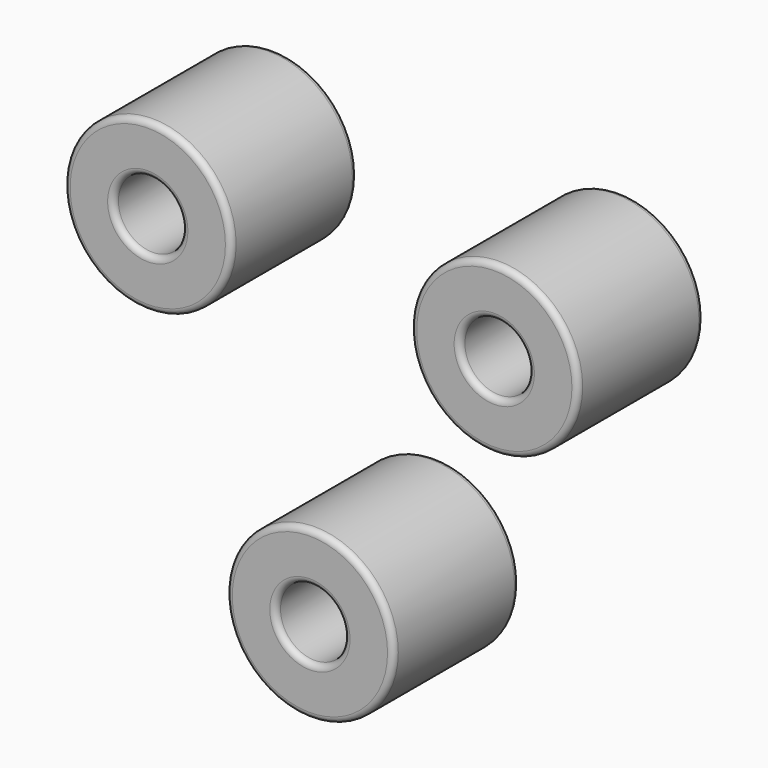
from build123d import *

# Parameters (mm, degrees)
F1_R     = 7.1
F1_R_2   = 2.9
F2_DEPTH = 6.675
F3_R     = 0.508
F3_2_R   = 0.508
F3_3_R   = 0.508
F4_R     = 0.508
F4_2_R   = 0.508
F4_3_R   = 0.508


with BuildPart() as f2:
    # F1 (on Front) → F2 (new body, symmetric)
    with BuildSketch(Plane.XZ):
        with Locations((15.027449182, 7.9483187582)):
            Circle(F1_R)
        with Locations((15.027449182, 7.9483187582)):
            Circle(F1_R_2, mode=Mode.SUBTRACT)
    extrude(amount=F2_DEPTH, both=True)

    # F3#2
    f3_2_edges = [f2.edges().sort_by_distance(p)[0] for p in [
        (7.927449, 6.675, 7.948319),
        (7.927449, -6.675, 7.948319),
    ]]
    fillet(f3_2_edges, radius=F3_2_R)

    # F4
    f4_edges = [f2.edges().sort_by_distance(p)[0] for p in [
        (12.127449, -6.675, 7.948319),
        (12.127449, 6.675, 7.948319),
    ]]
    fillet(f4_edges, radius=F4_R)


with BuildPart() as f2b:
    # F1 (on Front) → F2, piece 2 (new body, symmetric)
    with BuildSketch(Plane.XZ):
        with Locations((-14.397170553, 9.0399933666)):
            Circle(F1_R)
        with Locations((-14.397170553, 9.0399933666)):
            Circle(F1_R_2, mode=Mode.SUBTRACT)
    extrude(amount=F2_DEPTH, both=True)

    # F3
    f3_edges = [f2b.edges().sort_by_distance(p)[0] for p in [
        (-21.497171, 6.675, 9.039993),
        (-21.497171, -6.675, 9.039993),
    ]]
    fillet(f3_edges, radius=F3_R)

    # F4#3
    f4_3_edges = [f2b.edges().sort_by_distance(p)[0] for p in [
        (-17.297171, -6.675, 9.039993),
        (-17.297171, 6.675, 9.039993),
    ]]
    fillet(f4_3_edges, radius=F4_3_R)


with BuildPart() as f2c:
    # F1 (on Front) → F2, piece 3 (new body, symmetric)
    with BuildSketch(Plane.XZ):
        with Locations((-0.630278629, -16.9883121248)):
            Circle(F1_R)
        with Locations((-0.630278629, -16.9883121248)):
            Circle(F1_R_2, mode=Mode.SUBTRACT)
    extrude(amount=F2_DEPTH, both=True)

    # F3#3
    f3_3_edges = [f2c.edges().sort_by_distance(p)[0] for p in [
        (-7.730279, 6.675, -16.988312),
        (-7.730279, -6.675, -16.988312),
    ]]
    fillet(f3_3_edges, radius=F3_3_R)

    # F4#2
    f4_2_edges = [f2c.edges().sort_by_distance(p)[0] for p in [
        (-3.530279, -6.675, -16.988312),
        (-3.530279, 6.675, -16.988312),
    ]]
    fillet(f4_2_edges, radius=F4_2_R)


solid = Compound([f2.part, f2b.part, f2c.part])
